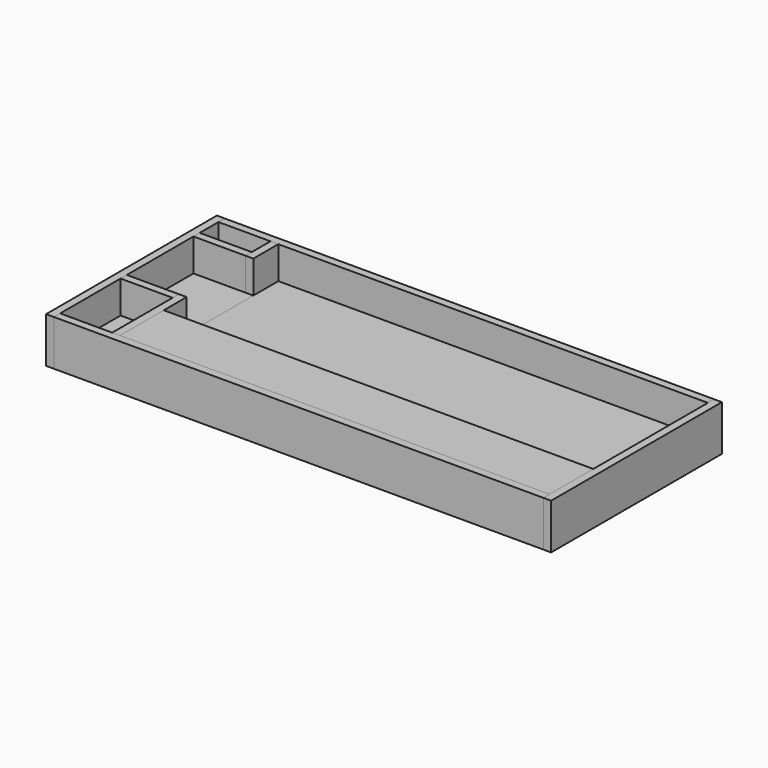
from build123d import *

# Parameters (mm, degrees)
BOX_W        = 165
BOX_H        = 76
BOX_DEPTH    = 5
BOX001_W     = 3
BOX001_H     = 18
BOX001_DEPTH = 10
BOX002_W     = 165
BOX002_H     = 21
BOX002_DEPTH = 2.5
BOX004_W     = 188
BOX004_H     = 3
BOX004_DEPTH = 17.5
BOX005_W     = 188
BOX005_H     = 3
BOX005_DEPTH = 17.5
BOX006_W     = 3
BOX006_H     = 32
BOX006_DEPTH = 14.5
BOX007_W     = 3
BOX007_H     = 12
BOX007_DEPTH = 14.5
BOX008_W     = 3
BOX008_H     = 82
BOX008_DEPTH = 17.5
BOX009_W     = 165
BOX009_H     = 3
BOX009_DEPTH = 10
BOX010_W     = 3
BOX010_H     = 18
BOX010_DEPTH = 10
BOX011_W     = 23
BOX011_H     = 76
BOX011_DEPTH = 5
BOX012_W     = 20
BOX012_H     = 3
BOX012_DEPTH = 14.5
BOX013_W     = 20
BOX013_H     = 3
BOX013_DEPTH = 14.5
BOX014_W     = 3
BOX014_H     = 82
BOX014_DEPTH = 17.5
BOX015_W     = 3
BOX015_H     = 18
BOX015_DEPTH = 10


with BuildPart() as base:
    # Box → Box (new body)
    with BuildSketch(Plane.XY):
        with Locations((82.5, 38)):
            Rectangle(BOX_W, BOX_H)
    extrude(amount=BOX_DEPTH)


with BuildPart() as platform_support:
    # Box001 → Box001 (new body)
    with BuildSketch(Plane(origin=(85, 0, 5), x_dir=(1, 0, 0), z_dir=(0, 0, 1))):
        with Locations((1.5, 9)):
            Rectangle(BOX001_W, BOX001_H)
    extrude(amount=BOX001_DEPTH)


with BuildPart() as platform:
    # Box002 → Box002 (new body)
    with BuildSketch(Plane.XY.offset(15)):
        with Locations((82.5, 10.5)):
            Rectangle(BOX002_W, BOX002_H)
    extrude(amount=BOX002_DEPTH)


with BuildPart() as box004:
    # Box004 → Box004 (new body)
    with BuildSketch(Plane(origin=(-23, -3, 0), x_dir=(1, 0, 0), z_dir=(0, 0, 1))):
        with Locations((94, 1.5)):
            Rectangle(BOX004_W, BOX004_H)
    extrude(amount=BOX004_DEPTH)


with BuildPart() as box005:
    # Box005 → Box005 (new body)
    with BuildSketch(Plane(origin=(-23, 76, 0), x_dir=(1, 0, 0), z_dir=(0, 0, 1))):
        with Locations((94, 1.5)):
            Rectangle(BOX005_W, BOX005_H)
    extrude(amount=BOX005_DEPTH)


with BuildPart() as box006:
    # Box006 → Box006 (new body)
    with BuildSketch(Plane(origin=(-3, 0, 3), x_dir=(1, 0, 0), z_dir=(0, 0, 1))):
        with Locations((1.5, 16)):
            Rectangle(BOX006_W, BOX006_H)
    extrude(amount=BOX006_DEPTH)


with BuildPart() as box007:
    # Box007 → Box007 (new body)
    with BuildSketch(Plane(origin=(-3, 64, 3), x_dir=(1, 0, 0), z_dir=(0, 0, 1))):
        with Locations((1.5, 6)):
            Rectangle(BOX007_W, BOX007_H)
    extrude(amount=BOX007_DEPTH)


with BuildPart() as box008:
    # Box008 → Box008 (new body)
    with BuildSketch(Plane(origin=(165, -3, 0), x_dir=(1, 0, 0), z_dir=(0, 0, 1))):
        with Locations((1.5, 41)):
            Rectangle(BOX008_W, BOX008_H)
    extrude(amount=BOX008_DEPTH)


with BuildPart() as platform_support001:
    # Box009 → Box009 (new body)
    with BuildSketch(Plane(origin=(0, 18, 5), x_dir=(1, 0, 0), z_dir=(0, 0, 1))):
        with Locations((82.5, 1.5)):
            Rectangle(BOX009_W, BOX009_H)
    extrude(amount=BOX009_DEPTH)


with BuildPart() as platform_support002:
    # Box010 → Box010 (new body)
    with BuildSketch(Plane(origin=(131, 0, 5), x_dir=(1, 0, 0), z_dir=(0, 0, 1))):
        with Locations((1.5, 9)):
            Rectangle(BOX010_W, BOX010_H)
    extrude(amount=BOX010_DEPTH)


with BuildPart() as box011:
    # Box011 → Box011 (new body)
    with BuildSketch(Plane(origin=(-23, 0, 0), x_dir=(1, 0, 0), z_dir=(0, 0, 1))):
        with Locations((11.5, 38)):
            Rectangle(BOX011_W, BOX011_H)
    extrude(amount=BOX011_DEPTH)


with BuildPart() as box012:
    # Box012 → Box012 (new body)
    with BuildSketch(Plane(origin=(-23, 64, 3), x_dir=(1, 0, 0), z_dir=(0, 0, 1))):
        with Locations((10, 1.5)):
            Rectangle(BOX012_W, BOX012_H)
    extrude(amount=BOX012_DEPTH)


with BuildPart() as box013:
    # Box013 → Box013 (new body)
    with BuildSketch(Plane(origin=(-23, 29, 3), x_dir=(1, 0, 0), z_dir=(0, 0, 1))):
        with Locations((10, 1.5)):
            Rectangle(BOX013_W, BOX013_H)
    extrude(amount=BOX013_DEPTH)


with BuildPart() as box014:
    # Box014 → Box014 (new body)
    with BuildSketch(Plane(origin=(-26, -3, 0), x_dir=(1, 0, 0), z_dir=(0, 0, 1))):
        with Locations((1.5, 41)):
            Rectangle(BOX014_W, BOX014_H)
    extrude(amount=BOX014_DEPTH)


with BuildPart() as platform_support003:
    # Box015 → Box015 (new body)
    with BuildSketch(Plane(origin=(38, 0, 5), x_dir=(1, 0, 0), z_dir=(0, 0, 1))):
        with Locations((1.5, 9)):
            Rectangle(BOX015_W, BOX015_H)
    extrude(amount=BOX015_DEPTH)


solid = Compound([base.part, platform_support.part, platform.part, box004.part, box005.part, box006.part, box007.part, box008.part, platform_support001.part, platform_support002.part, box011.part, box012.part, box013.part, box014.part, platform_support003.part])
